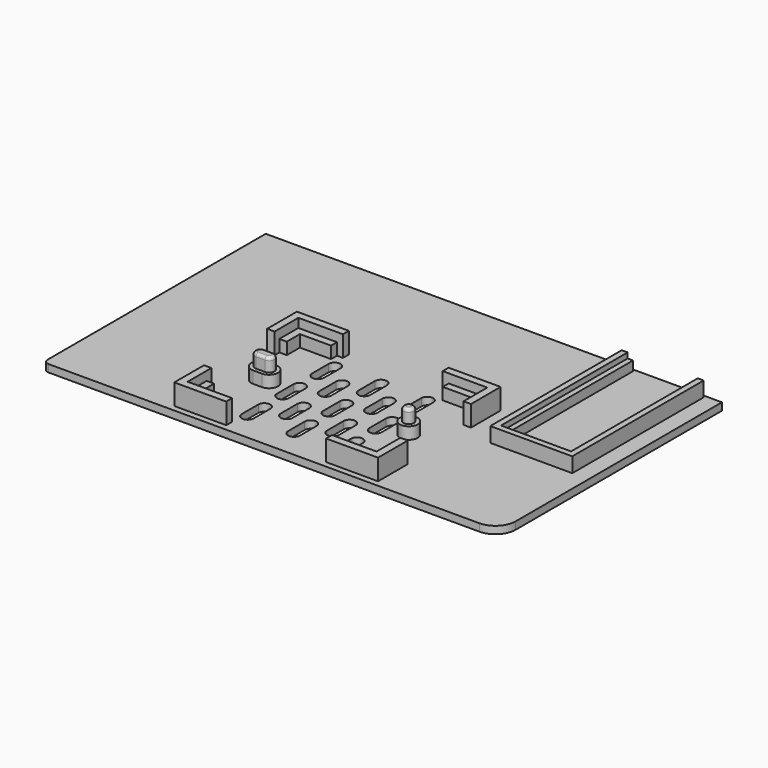
from build123d import *

# Parameters (mm, degrees)
PAD007_DEPTH      = 2.5
PAD008_DEPTH      = 5
PAD009_DEPTH      = 3.2
CYLINDER001_R     = 1.75
CYLINDER001_DEPTH = 8.5
FILLET004_R       = 1
CYLINDER002_R     = 3
CYLINDER002_DEPTH = 4
PAD011_DEPTH      = 8.5
FILLET005_R       = 1
PAD012_DEPTH      = 4
PAD013_DEPTH      = 7
PAD014_DEPTH      = 4
POCKET003_DEPTH   = 3.5


with BuildPart() as part:
    # Sketch009 (on DatumPlane) → Pad007 (new body)
    with BuildSketch(Plane.XY.offset(-82.8)):
        with BuildLine():
            Line((-76.8, 46.8), (76.8, 46.8))
            Line((76.8, 46.8), (76.8, -40))
            ThreePointArc((70, -46.8), (74.808326, -44.808326), (76.8, -40))
            Line((70, -46.8), (-75, -46.8))
            ThreePointArc((-76.8, -45), (-76.272792, -46.272792), (-75, -46.8))
            Line((-76.8, -45), (-76.8, 46.8))
        make_face()
    extrude(amount=PAD007_DEPTH)

    # Sketch010 (on DatumPlane) → Pad008 (join)
    with BuildSketch(Plane(origin=(57.5, 19.5, -80.3), x_dir=(1, 0, 0), z_dir=(0, 0, 1))):
        Polygon((-11.8, 26.5), (-13.8, 26.5), (-13.8, -28.8), (13.8, -28.8), (13.8, 26.5), (11.8, 26.5), (11.8, -26.8), (-11.8, -26.8), align=None)
    extrude(amount=PAD008_DEPTH)

    # Sketch011 (on DatumPlane) → Pad009 (join)
    with BuildSketch(Plane.XY.offset(-80.3)):
        Polygon((45.7, 46), (47.5, 46), (47.5, -6.3), (67.5, -6.3), (67.5, 46), (69.3, 46), (69.3, -7.3), (45.7, -7.3), align=None)
    extrude(amount=PAD009_DEPTH)

    # Cylinder001 → Cylinder001 (join)
    with BuildSketch(Plane(origin=(24, -19, -80.3), x_dir=(1, 0, 0), z_dir=(0, 0, 1))):
        Circle(CYLINDER001_R)
    extrude(amount=CYLINDER001_DEPTH)

    # Fillet004
    fillet004_edges = [part.edges().sort_by_distance(p)[0] for p in [
        (22.25, -19, -71.8),
    ]]
    fillet(fillet004_edges, radius=FILLET004_R)

    # Cylinder002 → Cylinder002 (join)
    with BuildSketch(Plane(origin=(24, -19, -80.3), x_dir=(1, 0, 0), z_dir=(0, 0, 1))):
        Circle(CYLINDER002_R)
    extrude(amount=CYLINDER002_DEPTH)

    # Sketch016 (on Face1 of Cylinder002) → Pad011 (join)
    with BuildSketch(Plane(origin=(24, -19, -80.3), x_dir=(1, 0, 0), z_dir=(0, 0, 1))):
        with BuildLine():
            ThreePointArc((-50, 1.75), (-51.75, 0), (-50, -1.75))
            Line((-50, -1.75), (-47, -1.75))
            ThreePointArc((-47, -1.75), (-45.25, 0), (-47, 1.75))
            Line((-47, 1.75), (-50, 1.75))
        make_face()
    extrude(amount=PAD011_DEPTH)

    # Fillet005
    fillet005_edges = [part.edges().sort_by_distance(p)[0] for p in [
        (-24.5, -20.75, -71.8),
        (-27.75, -19, -71.8),
        (-24.5, -17.25, -71.8),
        (-21.25, -19, -71.8),
    ]]
    fillet(fillet005_edges, radius=FILLET005_R)

    # Sketch017 (on Face4 of Fillet005) → Pad012 (join)
    with BuildSketch(Plane.XY.offset(-80.3)):
        with BuildLine():
            ThreePointArc((-26, -16), (-29, -19), (-26, -22))
            Line((-26, -22), (-23, -22))
            ThreePointArc((-23, -22), (-20, -19), (-23, -16))
            Line((-23, -16), (-26, -16))
        make_face()
    extrude(amount=PAD012_DEPTH)

    # Sketch018 (on Face1 of Pad012) → Pad013 (join)
    with BuildSketch(Plane.XY.offset(-80.3)):
        Polygon((31.8, -32.3), (31.8, -42.3), (16.8, -42.3), (16.8, -44.8), (34.3, -44.8), (34.3, -32.3), align=None)
        Polygon((-31.8, -5.7), (-31.8, 4.3), (-16.8, 4.3), (-16.8, 6.8), (-34.3, 6.8), (-34.3, -5.7), align=None)
        Polygon((16.8, 4.3), (16.8, 6.8), (34.3, 6.8), (34.3, -5.7), (31.8, -5.7), (31.8, 4.3), align=None)
        Polygon((-31.8, -32.3), (-34.3, -32.3), (-34.3, -44.8), (-16.8, -44.8), (-16.8, -42.3), (-31.8, -42.3), align=None)
    extrude(amount=PAD013_DEPTH)

    # Sketch019 (on Face1 of Pad013) → Pad014 (join)
    with BuildSketch(Plane.XY.offset(-80.3)):
        Polygon((18.8, 1.8), (18.8, 4.3), (31.8, 4.3), (31.8, -0.088908), (29.3, -0.088908), (29.3, 1.8), align=None)
        Polygon((-31.8, -3.7), (-29.3, -3.7), (-29.3, 1.8), (-18.8, 1.8), (-18.8, 4.3), (-31.8, 4.3), align=None)
        Polygon((-31.8, -42.3), (-31.8, -34.3), (-29.3, -34.3), (-29.3, -39.8), (-18.8, -39.8), (-18.8, -42.3), align=None)
        Polygon((31.8, -34.3), (29.3, -34.3), (29.3, -39.8), (18.8, -39.8), (18.8, -42.3), (31.8, -42.3), align=None)
    extrude(amount=PAD014_DEPTH)

    # Sketch020 (on Face1 of Pad014) → Pocket003 (cut)
    with BuildSketch(Plane.XY.offset(-80.3)):
        with BuildLine():
            ThreePointArc((2, -15.5), (0, -13.5), (-2, -15.5))
            Line((-2, -15.5), (-2, -22.5))
            ThreePointArc((-2, -22.5), (0, -24.5), (2, -22.5))
            Line((2, -22.5), (2, -15.5))
        make_face()
        with BuildLine():
            ThreePointArc((-2, -7.705551), (0, -9.705551), (2, -7.705551))
            Line((2, -7.705551), (2, -0.705551))
            ThreePointArc((2, -0.705551), (0, 1.294449), (-2, -0.705551))
            Line((-2, -0.705551), (-2, -7.705551))
        make_face()
        with BuildLine():
            ThreePointArc((-2, -37.294449), (0, -39.294449), (2, -37.294449))
            Line((2, -37.294449), (2, -30.294449))
            ThreePointArc((2, -30.294449), (0, -28.294449), (-2, -30.294449))
            Line((-2, -30.294449), (-2, -37.294449))
        make_face()
        with BuildLine():
            ThreePointArc((-13.590624, -15.5), (-15.590624, -13.5), (-17.590624, -15.5))
            Line((-17.590624, -15.5), (-17.590624, -22.5))
            ThreePointArc((-17.590624, -22.5), (-15.590624, -24.5), (-13.590624, -22.5))
            Line((-13.590624, -22.5), (-13.590624, -15.5))
        make_face()
        with BuildLine():
            ThreePointArc((-17.590624, -7.705551), (-15.590624, -9.705551), (-13.590624, -7.705551))
            Line((-13.590624, -7.705551), (-13.590624, -0.705551))
            ThreePointArc((-13.590624, -0.705551), (-15.590624, 1.294449), (-17.590624, -0.705551))
            Line((-17.590624, -0.705551), (-17.590624, -7.705551))
        make_face()
        with BuildLine():
            ThreePointArc((-17.590624, -37.294449), (-15.590624, -39.294449), (-13.590624, -37.294449))
            Line((-13.590624, -37.294449), (-13.590624, -30.294449))
            ThreePointArc((-13.590624, -30.294449), (-15.590624, -28.294449), (-17.590624, -30.294449))
            Line((-17.590624, -30.294449), (-17.590624, -37.294449))
        make_face()
        with BuildLine():
            ThreePointArc((17.590624, -15.5), (15.590624, -13.5), (13.590624, -15.5))
            Line((13.590624, -15.5), (13.590624, -22.5))
            ThreePointArc((13.590624, -22.5), (15.590624, -24.5), (17.590624, -22.5))
            Line((17.590624, -22.5), (17.590624, -15.5))
        make_face()
        with BuildLine():
            ThreePointArc((13.590624, -7.705551), (15.590624, -9.705551), (17.590624, -7.705551))
            Line((17.590624, -7.705551), (17.590624, -0.705551))
            ThreePointArc((17.590624, -0.705551), (15.590624, 1.294449), (13.590624, -0.705551))
            Line((13.590624, -0.705551), (13.590624, -7.705551))
        make_face()
        with BuildLine():
            ThreePointArc((13.590624, -37.294449), (15.590624, -39.294449), (17.590624, -37.294449))
            Line((17.590624, -37.294449), (17.590624, -30.294449))
            ThreePointArc((17.590624, -30.294449), (15.590624, -28.294449), (13.590624, -30.294449))
            Line((13.590624, -30.294449), (13.590624, -37.294449))
        make_face()
        with BuildLine():
            ThreePointArc((-5.795312, -7.363847), (-7.795312, -5.363847), (-9.795312, -7.363847))
            Line((-9.795312, -7.363847), (-9.795312, -14.363847))
            ThreePointArc((-9.795312, -14.363847), (-7.795312, -16.363847), (-5.795312, -14.363847))
            Line((-5.795312, -14.363847), (-5.795312, -7.363847))
        make_face()
        with BuildLine():
            ThreePointArc((-9.795312, -30.636153), (-7.795312, -32.636153), (-5.795312, -30.636153))
            Line((-5.795312, -30.636153), (-5.795312, -23.636153))
            ThreePointArc((-5.795312, -23.636153), (-7.795312, -21.636153), (-9.795312, -23.636153))
            Line((-9.795312, -23.636153), (-9.795312, -30.636153))
        make_face()
        with BuildLine():
            ThreePointArc((9.795312, -7.363847), (7.795312, -5.363847), (5.795312, -7.363847))
            Line((5.795312, -7.363847), (5.795312, -14.363847))
            ThreePointArc((5.795312, -14.363847), (7.795312, -16.363847), (9.795312, -14.363847))
            Line((9.795312, -14.363847), (9.795312, -7.363847))
        make_face()
        with BuildLine():
            ThreePointArc((5.795312, -30.636153), (7.795312, -32.636153), (9.795312, -30.636153))
            Line((9.795312, -30.636153), (9.795312, -23.636153))
            ThreePointArc((9.795312, -23.636153), (7.795312, -21.636153), (5.795312, -23.636153))
            Line((5.795312, -23.636153), (5.795312, -30.636153))
        make_face()
    extrude(amount=-POCKET003_DEPTH, mode=Mode.SUBTRACT)


solid = part.part
